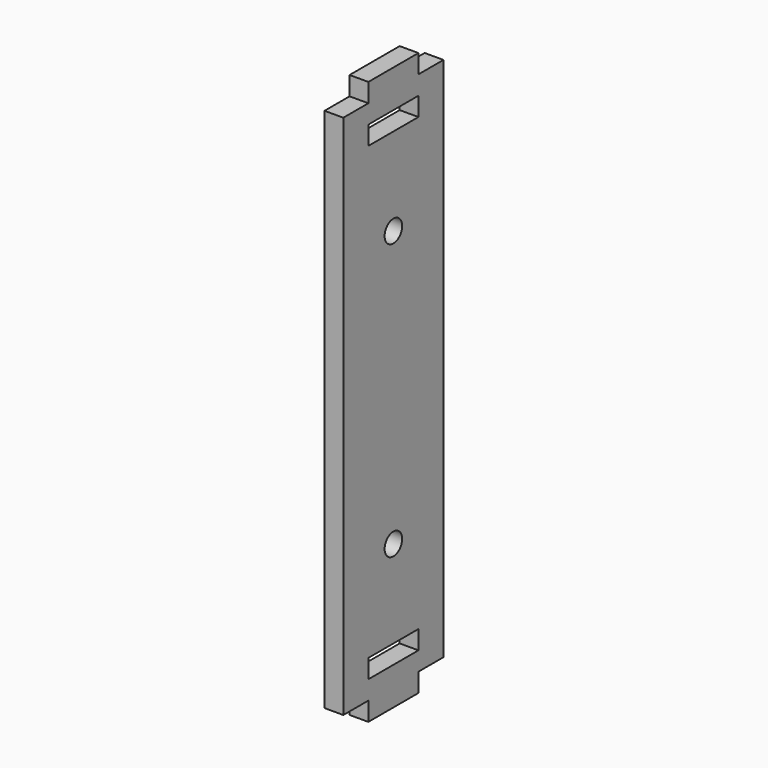
from build123d import *

# Parameters (mm, degrees)
F0_W     = 10
F0_H     = 3
F0_R     = 1.75
F1_DEPTH = 3


with BuildPart() as f1:
    # F0 (on Right) → F1 (new body)
    with BuildSketch(Plane.YZ):
        Polygon((10, -42), (10, 42), (5, 42), (-5, 42), (-10, 42), (-10, -42), (-5, -42), (5, -42), align=None)
        with Locations((0, -37.5)):
            Rectangle(F0_W, F0_H, mode=Mode.SUBTRACT)
        with Locations((0, -22)):
            Circle(F0_R, mode=Mode.SUBTRACT)
        with Locations((0, 22)):
            Circle(F0_R, mode=Mode.SUBTRACT)
        with Locations((0, 37.5)):
            Rectangle(F0_W, F0_H, mode=Mode.SUBTRACT)
        with Locations((0, 43.5)):
            Rectangle(F0_W, F0_H)
        with Locations((0, -43.5)):
            Rectangle(F0_W, F0_H)
    extrude(amount=F1_DEPTH)


solid = f1.part
